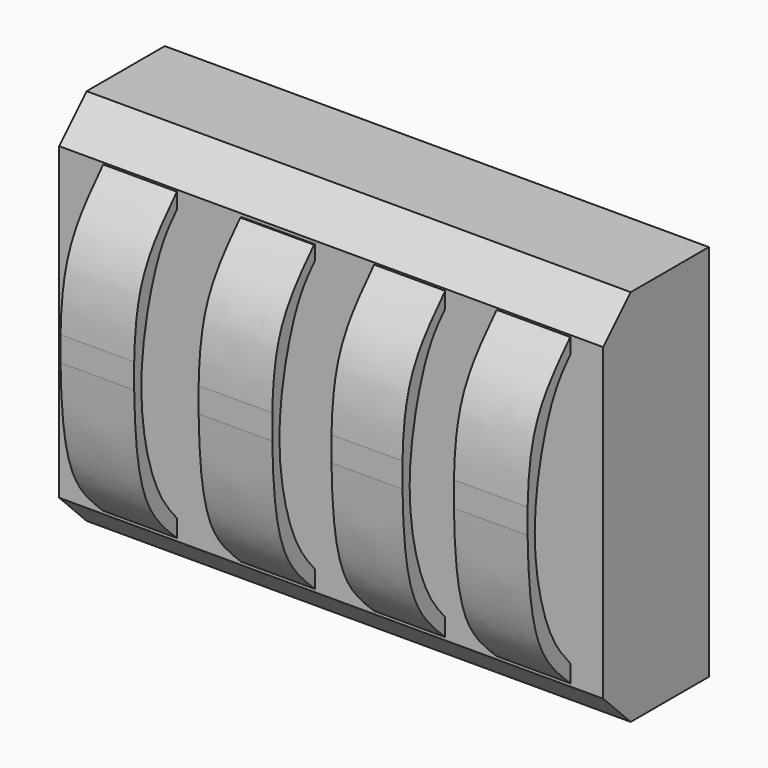
from build123d import *

# Parameters (mm, degrees)
F1_W     = 15.82
F1_H     = 11
F2_DEPTH = 3.84
F3_SIZE  = 1
F4_SIZE  = 1
F5_W     = 2.1417201497
F5_H     = 8.8636892997
F6_DEPTH = 1.55
F5_W_2   = 2.0652275998
F5_H_2   = 8.8852646386
F5_W_3   = 2.1417178214
F5_H_3   = 8.8852650169
F5_H_4   = 9
F8_DEPTH = 25


with BuildPart() as f2:
    # F1 (on offset) → F2 (new body)
    with BuildSketch(Plane.XZ.offset(25)):
        Rectangle(F1_W, F1_H)
    extrude(amount=F2_DEPTH)

    # F3
    f3_edges = [f2.edges().sort_by_distance(p)[0] for p in [
        (0, -28.84, 5.5),
    ]]
    chamfer(f3_edges, length=F3_SIZE)

    # F4
    f4_edges = [f2.edges().sort_by_distance(p)[0] for p in [
        (0, -28.84, -5.5),
    ]]
    chamfer(f4_edges, length=F4_SIZE)


with BuildPart() as f6:
    # F5 (on face) → F6 (new body)
    with BuildSketch(Plane.XZ.offset(28.84)):
        with Locations((5.8809213806, 0.014212681)):
            Rectangle(F5_W, F5_H)
    extrude(amount=F6_DEPTH)


with BuildPart() as f6b:
    # F5 (on face) → F6, piece 2 (new body)
    with BuildSketch(Plane.XZ.offset(28.84)):
        with Locations((2.2823809413, 0.0034244003)):
            Rectangle(F5_W_2, F5_H_2)
    extrude(amount=F6_DEPTH)


with BuildPart() as f6c:
    # F5 (on face) → F6, piece 3 (new body)
    with BuildSketch(Plane.XZ.offset(28.84)):
        with Locations((-1.542115584, -0.0348208705)):
            Rectangle(F5_W_3, F5_H_3)
    extrude(amount=F6_DEPTH)


with BuildPart() as f6d:
    # F5 (on face) → F6, piece 4 (new body)
    with BuildSketch(Plane.XZ.offset(28.84)):
        with Locations((-5.5578360334, 0)):
            Rectangle(F5_W_3, F5_H_4)
    extrude(amount=F6_DEPTH)


with BuildPart() as f8_tool:
    # F7 (on face) → F8 (new body)
    with BuildSketch(Plane.YZ.offset(6.9517814554)):
        with BuildLine():
            add(Edge.make_bspline(
                [(-30.39, 0), (-30.3943079175, 0.2448716036), (-30.3952388636, 0.4863798913), (-30.39, 0.7225607399)],
                knots=[0.4977385406, 0.4977385406, 0.4977385406, 0.4977385406, 0.5615957686, 0.5615957686, 0.5615957686, 0.5615957686], degree=3))
            Line((-30.39, 0), (-30.39, 0.7225607399))
        make_face()
        with BuildLine():
            Line((-30.39, 4.4460573308), (-30.39, 0.7225607399))
            add(Edge.make_bspline(
                [(-30.39, 0.7225607399), (-30.3730529733, 1.4865743522), (-30.2000633673, 2.9897310396), (-29.3104438621, 3.9423162689), (-28.84, 4.4460573308)],
                knots=[0.5615957686, 0.5615957686, 0.5615957686, 0.5615957686, 0.7681654027, 1, 1, 1, 1], degree=3))
            Line((-28.84, 4.4460573308), (-30.39, 4.4460573308))
        make_face()
        with BuildLine():
            add(Edge.make_bspline(
                [(-28.84, -3.9084204473), (-29.0945392644, -3.6141295197), (-29.7078662605, -2.8753568608), (-30.3994152202, -0.0055605138), (-29.6662903067, 2.9579833157), (-29.1579740625, 3.6641003057), (-28.84, 3.9868718013)],
                knots=[0, 0, 0, 0, 0.1976133244, 0.497917448, 0.8013489912, 1, 1, 1, 1], degree=3))
            Line((-28.84, -3.9084204473), (-28.84, 3.9868718013))
        make_face()
        with BuildLine():
            Line((-30.39, 0), (-30.39, -4.4176319689))
            Line((-30.39, -4.4176319689), (-28.84, -4.4176319689))
            add(Edge.make_bspline(
                [(-28.84, -4.4176319689), (-29.2568555029, -4.0222952599), (-30.2209089662, -3.1080078853), (-30.3709409197, -1.083360467), (-30.39, 0)],
                knots=[0, 0, 0, 0, 0.2152215179, 0.4977385406, 0.4977385406, 0.4977385406, 0.4977385406], degree=3))
        make_face()
        Polygon((-30.39, 4.778846167), (-30.39, 4.4460573308), (-28.84, 4.4460573308), align=None)
        Polygon((-30.39, 4.778846167), (-28.84, 4.4460573308), (-28.84, 4.6984464861), align=None)
        Polygon((-28.84, -4.4176319689), (-30.39, -4.4176319689), (-30.39, -4.570631776), (-28.84, -4.6951686963), align=None)
    extrude(amount=-F8_DEPTH)


with BuildPart() as f6_1:
    add(f6.part)

    # F8: cut by f8_tool
    add(f8_tool.part, mode=Mode.SUBTRACT)


with BuildPart() as f6b_1:
    add(f6b.part)

    # F8: cut by f8_tool
    add(f8_tool.part, mode=Mode.SUBTRACT)


with BuildPart() as f6c_1:
    add(f6c.part)

    # F8: cut by f8_tool
    add(f8_tool.part, mode=Mode.SUBTRACT)


with BuildPart() as f6d_1:
    add(f6d.part)

    # F8: cut by f8_tool
    add(f8_tool.part, mode=Mode.SUBTRACT)


solid = Compound([f2.part, f6_1.part, f6b_1.part, f6c_1.part, f6d_1.part])
